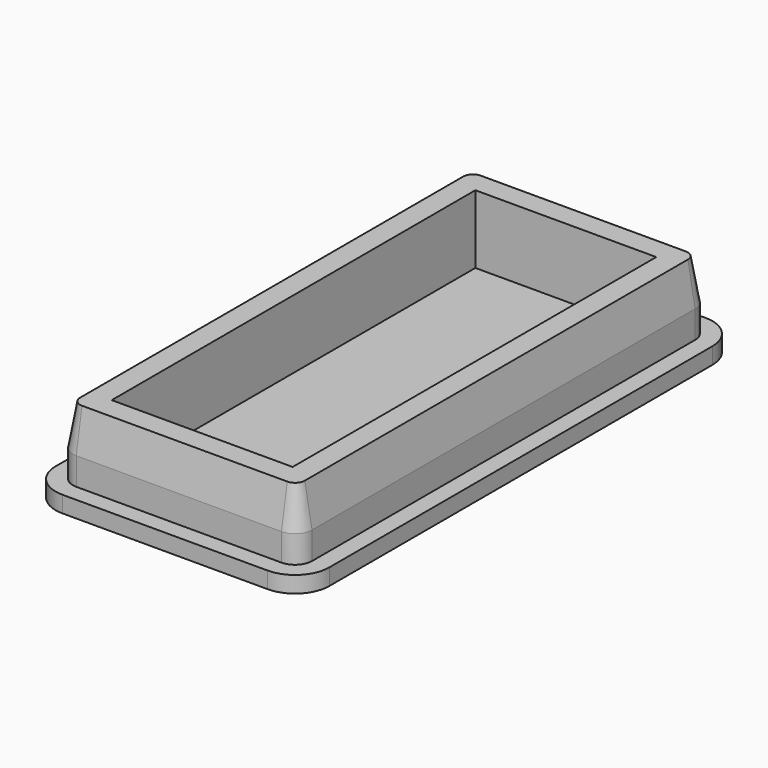
from build123d import *

# Parameters (mm, degrees)
F1_DEPTH = 1.524
F3_DEPTH = 2.54
F4_DEPTH = 3.81
F4_TAPER = 10
F5_W     = 16.791988407
F5_H     = 42.191988407
F6_DEPTH = 6.35


with BuildPart() as f1:
    # F0 (on Top) → F1 (new body)
    with BuildSketch(Plane.XY):
        with BuildLine():
            ThreePointArc((0, 3.175), (0.9299359697, 0.9299359697), (3.175, 0))
            Line((3.175, 0), (22.225, 0))
            ThreePointArc((22.225, 0), (24.4700640303, 0.9299359697), (25.4, 3.175))
            Line((25.4, 3.175), (25.4, 47.625))
            ThreePointArc((25.4, 47.625), (24.4700640303, 49.8700640303), (22.225, 50.8))
            Line((22.225, 50.8), (3.175, 50.8))
            ThreePointArc((3.175, 50.8), (0.9299359697, 49.8700640303), (0, 47.625))
            Line((0, 47.625), (0, 3.175))
        make_face()
    extrude(amount=F1_DEPTH)

    # F2 (on face) → F3 (join)
    with BuildSketch(Plane.XY.offset(1.524)):
        with BuildLine():
            Line((23.7998, 3.175), (23.7998, 47.625))
            ThreePointArc((23.7998, 47.625), (23.338551759, 48.738551759), (22.225, 49.1998))
            Line((22.225, 49.1998), (3.175, 49.1998))
            ThreePointArc((3.175, 49.1998), (2.061448241, 48.738551759), (1.6002, 47.625))
            Line((1.6002, 47.625), (1.6002, 3.175))
            ThreePointArc((1.6002, 3.175), (2.061448241, 2.061448241), (3.175, 1.6002))
            Line((3.175, 1.6002), (22.225, 1.6002))
            ThreePointArc((22.225, 1.6002), (23.338551759, 2.061448241), (23.7998, 3.175))
        make_face()
    extrude(amount=F3_DEPTH)

    # F3_face (on face) → F4 (join)
    with BuildSketch(Plane(origin=(12.7, 25.4, 4.064), x_dir=(1, 0, 0), z_dir=(0, 0, 1))):
        with BuildLine():
            ThreePointArc((9.525, -23.7998), (10.638551759, -23.338551759), (11.0998, -22.225))
            Line((11.0998, -22.225), (11.0998, 22.225))
            ThreePointArc((11.0998, 22.225), (10.638551759, 23.338551759), (9.525, 23.7998))
            Line((9.525, 23.7998), (-9.525, 23.7998))
            ThreePointArc((-9.525, 23.7998), (-10.638551759, 23.338551759), (-11.0998, 22.225))
            Line((-11.0998, 22.225), (-11.0998, -22.225))
            ThreePointArc((-11.0998, -22.225), (-10.638551759, -23.338551759), (-9.525, -23.7998))
            Line((-9.525, -23.7998), (9.525, -23.7998))
        make_face()
    extrude(amount=F4_DEPTH, taper=F4_TAPER)

    # F5 (on face) → F6 (cut)
    with BuildSketch(Plane.XY.offset(7.874)):
        with Locations((12.7, 25.4)):
            Rectangle(F5_W, F5_H)
    extrude(amount=-F6_DEPTH, mode=Mode.SUBTRACT)


solid = f1.part
